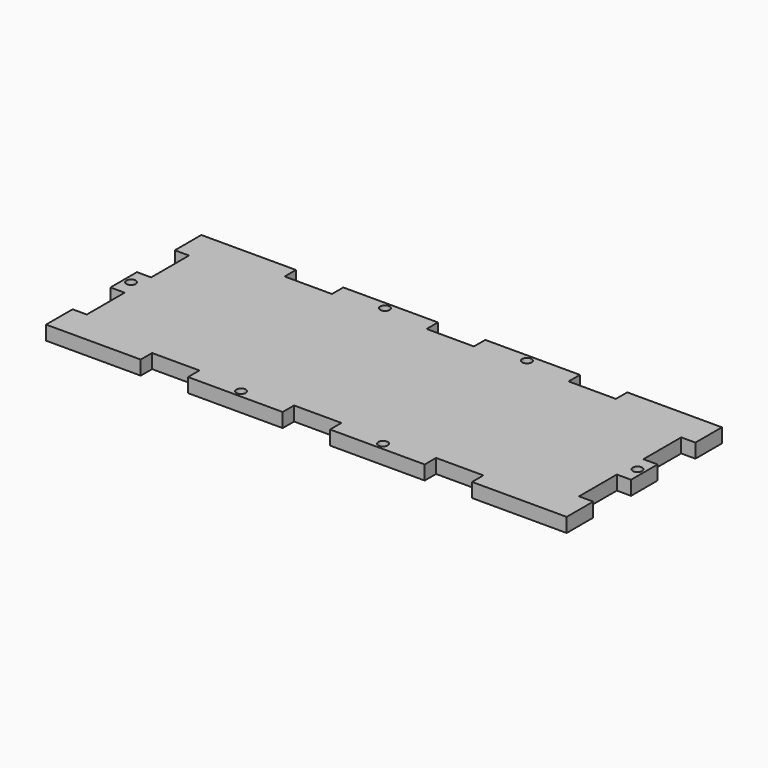
from build123d import *

# Parameters (mm, degrees)
F0_R     = 1
F1_DEPTH = 3


with BuildPart() as f1:
    # F0 (on Top) → F1 (new body)
    with BuildSketch(Plane.XY):
        Polygon((0, 7), (0, 0), (20, 0), (20, 3), (30, 3), (30, 0), (50, 0), (50, 3), (55, 3), (60, 3), (60, 0), (80, 0), (80, 3), (90, 3), (90, 0), (110, 0), (110, 7), (107, 7), (107, 17), (110, 17), (110, 24), (107, 24), (107, 34), (110, 34), (110, 41), (90, 41), (90, 38), (80, 38), (80, 41), (60, 41), (60, 38), (55, 38), (50, 38), (50, 41), (30, 41), (30, 38), (20, 38), (20, 41), (0, 41), (0, 34), (3, 34), (3, 24), (0, 24), (0, 17), (3, 17), (3, 7), align=None)
        with Locations((40, 1.5)):
            Circle(F0_R, mode=Mode.SUBTRACT)
        with Locations((70, 1.5)):
            Circle(F0_R, mode=Mode.SUBTRACT)
        with Locations((1.5, 20.576112)):
            Circle(F0_R, mode=Mode.SUBTRACT)
        with Locations((40, 39.5)):
            Circle(F0_R, mode=Mode.SUBTRACT)
        with Locations((108.5, 20.576112)):
            Circle(F0_R, mode=Mode.SUBTRACT)
        with Locations((70, 39.5)):
            Circle(F0_R, mode=Mode.SUBTRACT)
    extrude(amount=F1_DEPTH)


solid = f1.part
